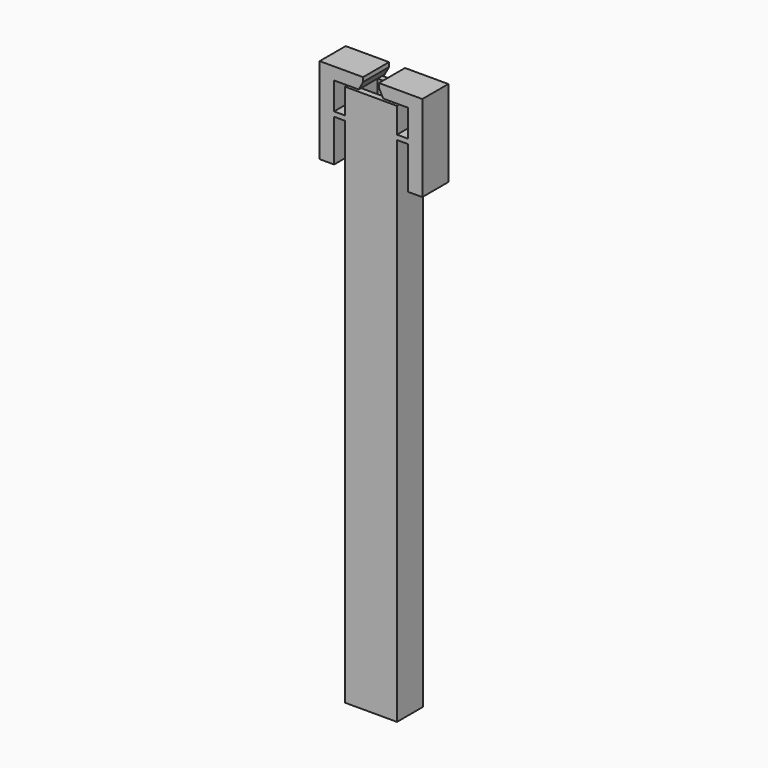
from build123d import *

# Parameters (mm, degrees)
F0_W     = 14.4
F0_H     = 100
F1_DEPTH = 4.5
F2_W     = 8.2
F2_H     = 5.7
F3_DEPTH = 100.001
F4_W     = 9
F4_H     = 1.3
F5_DEPTH = 6
F7_DEPTH = 9
F9_DEPTH = 50


with BuildPart() as f1:
    # F0 (on Front) → F1 (new body, symmetric)
    with BuildSketch(Plane.XZ):
        Rectangle(F0_W, F0_H)
    extrude(amount=F1_DEPTH, both=True)

    # F2 (on face) → F3 (cut, through all)
    with BuildSketch(Plane.XY.offset(50)):
        Rectangle(F2_W, F2_H)
    extrude(amount=-F3_DEPTH, mode=Mode.SUBTRACT)

    # F4 (on face) → F5 (join)
    with BuildSketch(Plane(origin=(-7.2, 0, 0), x_dir=(0, -1, 0), z_dir=(-1, 0, 0))):
        with Locations((0, 42.35)):
            Rectangle(F4_W, F4_H)
    extrude(amount=F5_DEPTH)

    # F6 (on face) → F7 (join)
    with BuildSketch(Plane(origin=(0, 4.5, 0), x_dir=(-1, 0, 0), z_dir=(0, 1, 0))):
        Polygon((10.2, 50.5525747299), (10.2, 30.0701190412), (14.2, 30.0701190412), (14.2, 53.9525747299), (10.2, 53.9525747299), align=None)
        Polygon((3.4, 50.5525747299), (10.2, 50.5525747299), (10.2, 53.9525747299), (3.4, 53.9525747299), (2.2, 53.9525747299), (2.2, 52.7525747299), align=None)
    extrude(amount=-F7_DEPTH)

    # F8: F1 across plane


with BuildPart() as f1_1:
    add(f1.part)
    add(f1.part.mirror(Plane.YZ))

    # F9 (add): a face of the model
    f9_faces = [f1_1.faces().sort_by_distance(p)[0] for p in [
        (-7.0301883396, 0, -50),
    ]]
    extrude(f9_faces, amount=F9_DEPTH)


solid = f1_1.part
